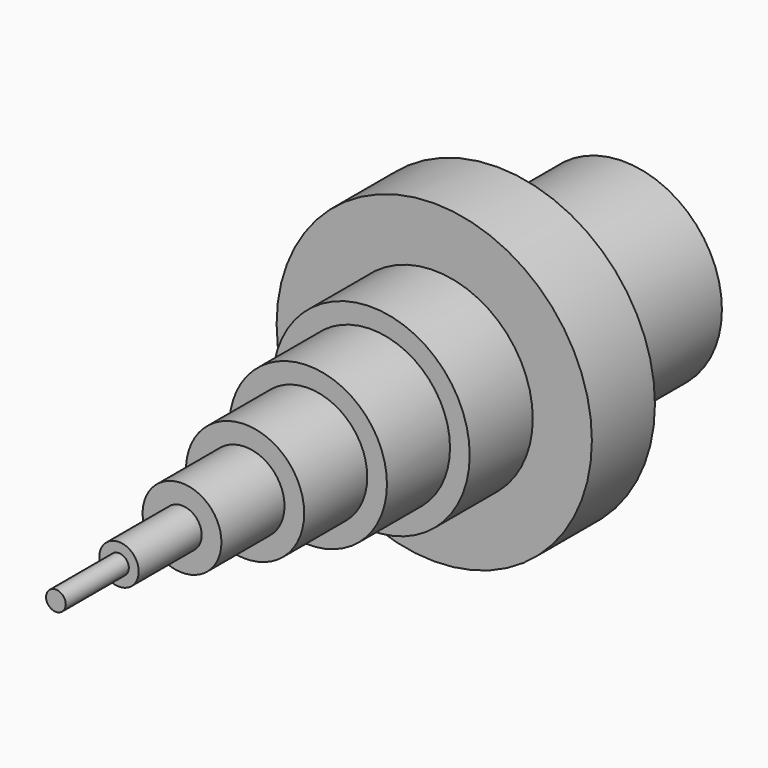
from build123d import *

# Parameters (mm, degrees)
F0_R     = 2.5
F1_DEPTH = 140
F0_R_2   = 5
F2_DEPTH = 120
F0_R_3   = 10
F3_DEPTH = 100
F0_R_4   = 15
F4_DEPTH = 80
F0_R_5   = 20
F5_DEPTH = 60
F0_R_6   = 25
F6_DEPTH = 40
F0_R_7   = 40
F7_DEPTH = 20
F8_DEPTH = 40


with BuildPart() as f1:
    # F0 (on Front) → F1 (new body)
    with BuildSketch(Plane.XZ):
        Circle(F0_R)
    extrude(amount=F1_DEPTH)

    # F0 (on Front) → F2 (join)
    with BuildSketch(Plane.XZ):
        Circle(F0_R_2)
        Circle(F0_R, mode=Mode.SUBTRACT)
    extrude(amount=F2_DEPTH)

    # F0 (on Front) → F3 (join)
    with BuildSketch(Plane.XZ):
        Circle(F0_R_3)
        Circle(F0_R_2, mode=Mode.SUBTRACT)
    extrude(amount=F3_DEPTH)

    # F0 (on Front) → F4 (join)
    with BuildSketch(Plane.XZ):
        Circle(F0_R_4)
        Circle(F0_R_3, mode=Mode.SUBTRACT)
    extrude(amount=F4_DEPTH)

    # F0 (on Front) → F5 (join)
    with BuildSketch(Plane.XZ):
        Circle(F0_R_5)
        Circle(F0_R_4, mode=Mode.SUBTRACT)
    extrude(amount=F5_DEPTH)

    # F0 (on Front) → F6 (join)
    with BuildSketch(Plane.XZ):
        Circle(F0_R_6)
        Circle(F0_R_5, mode=Mode.SUBTRACT)
    extrude(amount=F6_DEPTH)

    # F0 (on Front) → F7 (join)
    with BuildSketch(Plane.XZ):
        Circle(F0_R_7)
        Circle(F0_R_6, mode=Mode.SUBTRACT)
    extrude(amount=F7_DEPTH)

    # F0 (on Front) → F8 (join)
    with BuildSketch(Plane.XZ):
        Circle(F0_R_6)
        Circle(F0_R_5, mode=Mode.SUBTRACT)
    extrude(amount=-F8_DEPTH)


solid = f1.part
